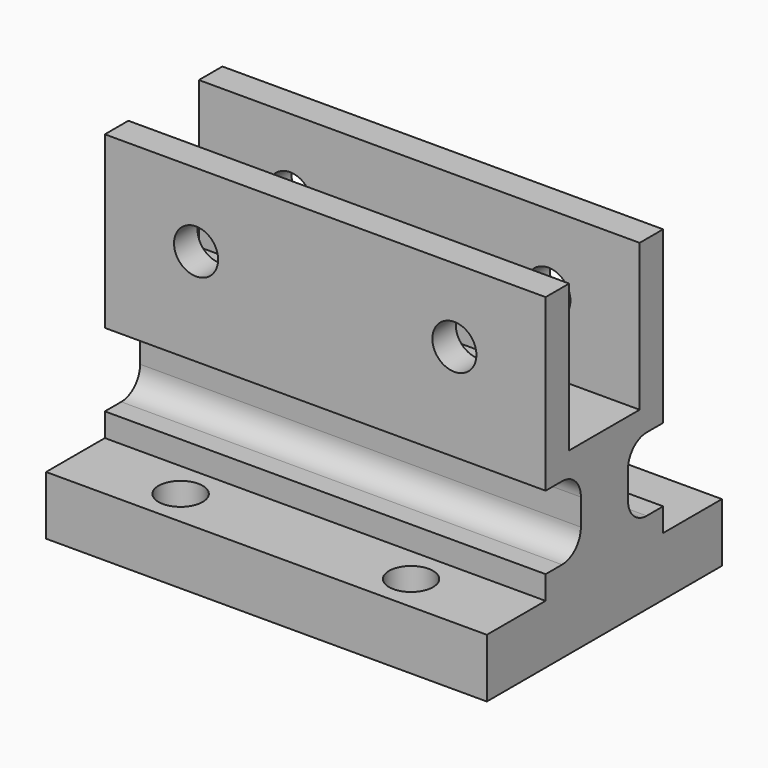
from build123d import *

# Parameters (mm, degrees)
F1_DEPTH = 7.5
F2_R     = 0.75
F3_DEPTH = 7.501
F4_R     = 0.75
F5_DEPTH = 2.001


with BuildPart() as f1:
    # F0 (on Right) → F1 (new body, symmetric)
    with BuildSketch(Plane.YZ):
        with BuildLine():
            Line((-1.5, -2.5), (-1.5, 2.5))
            Line((-1.5, 2.5), (-2.5, 2.5))
            Line((-2.5, 2.5), (-2.5, -3.3))
            Line((-2.5, -3.3), (-1.8, -3.3))
            ThreePointArc((-1.8, -3.3), (-1.234315, -3.534315), (-1, -4.1))
            Line((-1, -4.1), (-1, -5))
            ThreePointArc((-1, -5), (-1.234315, -5.565685), (-1.8, -5.8))
            Line((-1.8, -5.8), (-2.5, -5.8))
            Line((-2.5, -5.8), (-2.5, -6.6))
            Line((-2.5, -6.6), (2.5, -6.6))
            Line((2.5, -6.6), (2.5, -5.8))
            Line((2.5, -5.8), (1.8, -5.8))
            ThreePointArc((1.8, -5.8), (1.234315, -5.565685), (1, -5))
            Line((1, -5), (1, -4.1))
            ThreePointArc((1, -4.1), (1.234315, -3.534315), (1.8, -3.3))
            Line((1.8, -3.3), (2.5, -3.3))
            Line((2.5, -3.3), (2.5, 2.5))
            Line((2.5, 2.5), (1.5, 2.5))
            Line((1.5, 2.5), (1.5, -2.5))
            Line((1.5, -2.5), (-1.5, -2.5))
        make_face()
        Polygon((2.5, -6.6), (-2.5, -6.6), (-5, -6.6), (-5, -8.6), (5, -8.6), (5, -6.6), align=None)
    extrude(amount=F1_DEPTH, both=True)

    # F2 (on face) → F3 (cut, through all)
    with BuildSketch(Plane(origin=(0, 2.5, 0), x_dir=(-1, 0, 0), z_dir=(0, 1, 0))):
        with Locations((-4.395362, 0)):
            Circle(F2_R)
        with Locations((4.395362, 0)):
            Circle(F2_R)
    extrude(amount=-F3_DEPTH, mode=Mode.SUBTRACT)

    # F4 (on face) → F5 (cut, through all)
    with BuildSketch(Plane.XY.offset(-6.6)):
        with Locations((-3.921103, -3.75)):
            Circle(F4_R)
        with Locations((3.921103, -3.75)):
            Circle(F4_R)
        with Locations((3.921103, 3.75)):
            Circle(F4_R)
        with Locations((-3.921103, 3.75)):
            Circle(F4_R)
    extrude(amount=-F5_DEPTH, mode=Mode.SUBTRACT)


solid = f1.part
